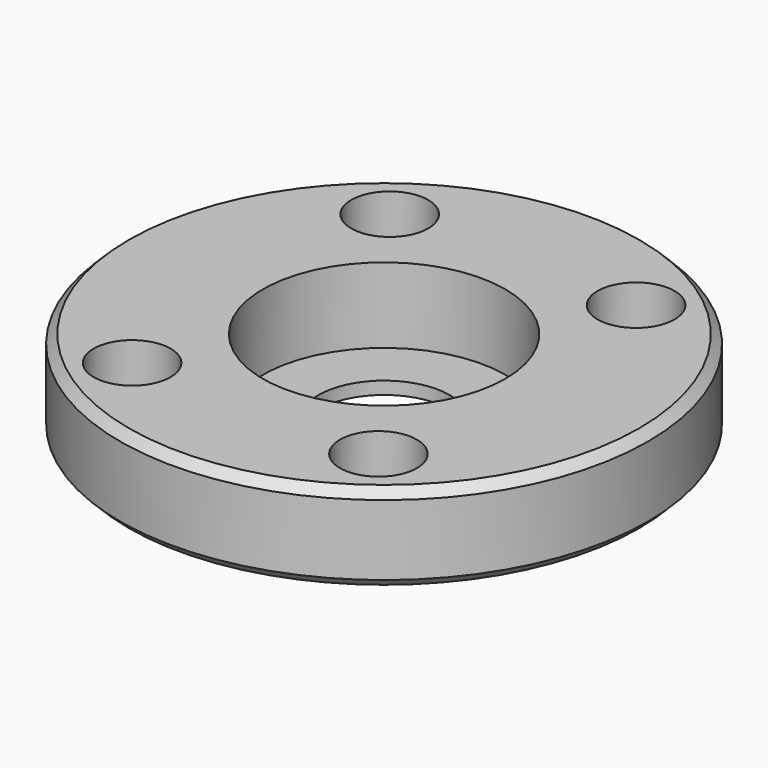
from build123d import *

# Parameters (mm, degrees)
F0_R     = 38.1
F0_R_2   = 5.5626
F0_R_3   = 17.5006
F1_DEPTH = 12.7
F0_R_4   = 3.3782
F2_DEPTH = 6.35
F0_R_5   = 9.525
F3_DEPTH = 1.8288
F4_SIZE  = 1.27


with BuildPart() as f1:
    # F0 (on Top) → F1 (new body)
    with BuildSketch(Plane.XY):
        Circle(F0_R)
        with Locations((-17.78, -23.241)):
            Circle(F0_R_2, mode=Mode.SUBTRACT)
        with Locations((17.78, -23.241)):
            Circle(F0_R_2, mode=Mode.SUBTRACT)
        with Locations((-17.78, 23.241)):
            Circle(F0_R_2, mode=Mode.SUBTRACT)
        Circle(F0_R_3, mode=Mode.SUBTRACT)
        with Locations((17.78, 23.241)):
            Circle(F0_R_2, mode=Mode.SUBTRACT)
    extrude(amount=F1_DEPTH)

    # F0 (on Top) → F2 (join)
    with BuildSketch(Plane.XY):
        with Locations((-17.78, 23.241)):
            Circle(F0_R_2)
        with Locations((-17.78, 23.241)):
            Circle(F0_R_4, mode=Mode.SUBTRACT)
        with Locations((17.78, 23.241)):
            Circle(F0_R_2)
        with Locations((17.78, 23.241)):
            Circle(F0_R_4, mode=Mode.SUBTRACT)
        with Locations((17.78, -23.241)):
            Circle(F0_R_2)
        with Locations((17.78, -23.241)):
            Circle(F0_R_4, mode=Mode.SUBTRACT)
        with Locations((-17.78, -23.241)):
            Circle(F0_R_2)
        with Locations((-17.78, -23.241)):
            Circle(F0_R_4, mode=Mode.SUBTRACT)
    extrude(amount=F2_DEPTH)

    # F0 (on Top) → F3 (join)
    with BuildSketch(Plane.XY):
        Circle(F0_R_3)
        Circle(F0_R_5, mode=Mode.SUBTRACT)
    extrude(amount=F3_DEPTH)

    # F4
    f4_edges = [f1.edges().sort_by_distance(p)[0] for p in [
        (-38.1, 0, 12.7),
        (-38.1, 0, 0),
    ]]
    chamfer(f4_edges, length=F4_SIZE)


solid = f1.part
